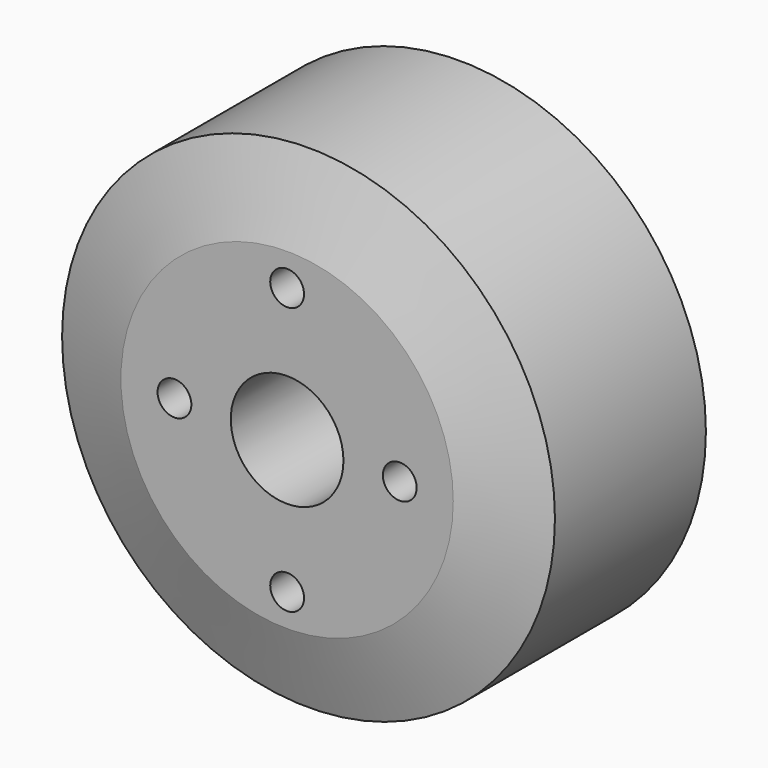
from build123d import *

# Parameters (mm, degrees)
F0_R     = 17.5
F0_R_2   = 4
F1_DEPTH = 15.3
F2_SIZE2 = 1.9
F2_SIZE  = 5.7
F4_D     = 2.4


with BuildPart() as f1:
    # F0 (on Front) → F1 (new body)
    with BuildSketch(Plane.XZ):
        Circle(F0_R)
        Circle(F0_R_2, mode=Mode.SUBTRACT)
    extrude(amount=F1_DEPTH)

    # F2
    f2_edges = [f1.edges().sort_by_distance(p)[0] for p in [
        (-17.5, -15.3, 0),
    ]]
    f2_side = f1.faces().sort_by_distance((-17.005025, -15.3, 0))[0]
    chamfer(f2_edges, length=F2_SIZE, length2=F2_SIZE2, reference=f2_side)

    # F4 (through all)
    with Locations(Plane.XZ.offset(15.3)):
        with Locations((0, 9.5), (-8, 0), (0, -9.5), (8, 0)):
            Hole(F4_D / 2)


solid = f1.part
